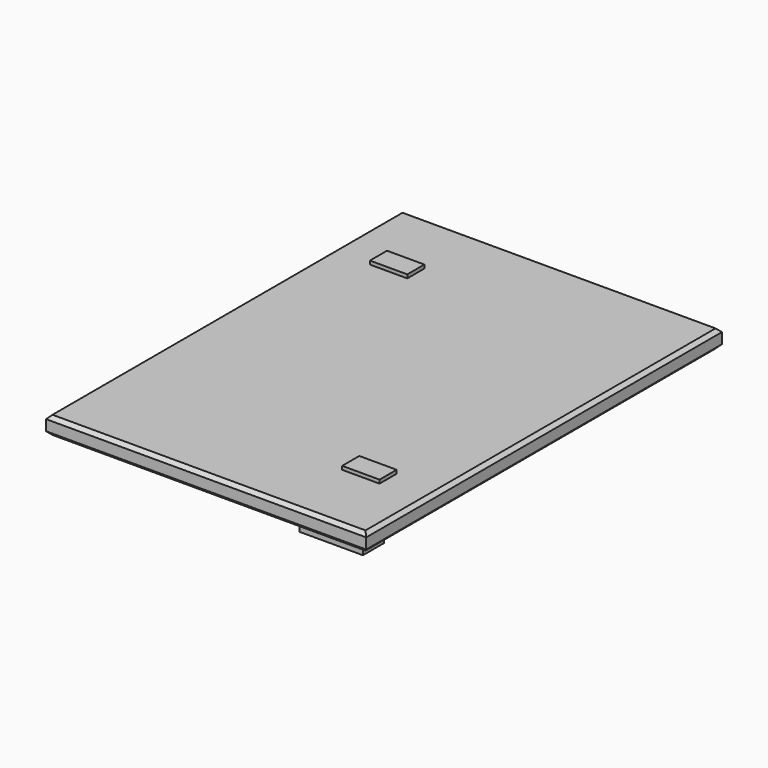
from build123d import *

# Parameters (mm, degrees)
F0_W      = 457.2
F0_H      = 635
F1_DEPTH  = 25.4
F2_SIZE   = 5.08
F3_W      = 90.6663909554
F3_H      = 37.3332202435
F4_DEPTH  = 25.4
F5_W      = 53.34
F5_H      = 30.48
F6_DEPTH  = 5.08
F12_DEPTH = 6.35


with BuildPart() as f1:
    # F0 (on Top) → F1 (new body)
    with BuildSketch(Plane.XY):
        Rectangle(F0_W, F0_H)
    extrude(amount=F1_DEPTH)

    # F2
    f2_edges = [f1.edges().sort_by_distance(p)[0] for p in [
        (0, -317.5, 25.4),
        (-228.6, 0, 25.4),
        (0, 317.5, 25.4),
        (228.6, 0, 25.4),
        (228.6, 0, 0),
        (0, -317.5, 0),
        (-228.6, 0, 0),
        (0, 317.5, 0),
    ]]
    chamfer(f2_edges, length=F2_SIZE)

    # F3 (on face) → F4 (join)
    with BuildSketch(Plane(origin=(0, 0, 0), x_dir=(1, 0, 0), z_dir=(0, 0, -1))):
        with Locations((152.5355242193, 266.2514895201)):
            Rectangle(F3_W, F3_H)
    extrude(amount=F4_DEPTH)


with BuildPart() as f6:
    # F5 (on Top) → F6 (new body)
    with BuildSketch(Plane.XY):
        with Locations((-725.0385009307, 129.6741962433)):
            Rectangle(F5_W, F5_H)
    extrude(amount=F6_DEPTH)


with BuildPart() as f7_1:
    # F7: copy of F6
    add(f6.part.moved(Location((0, 203.2, 0))))


with BuildPart() as f8_1:
    # F8: copy of F6
    add(f6.part.moved(Location((0, -203.2, 0))))


with BuildPart() as f8_1_1:
    # F9: moved
    add(f8_1.part.moved(Location((723.9, -129.54, 27.94))))


with BuildPart() as f7_1_1:
    # F9: moved
    add(f7_1.part.moved(Location((723.9, -129.54, 27.94))))


with BuildPart() as f6_1:
    # F9: moved
    add(f6.part.moved(Location((723.9, -129.54, 27.94))))

    # F12 (cut): a face of the model
    f12_faces = [f6_1.faces().sort_by_distance(p)[0] for p in [
        (-1.1385009307, 0.1341962433, 33.02),
    ]]
    extrude(f12_faces, amount=-F12_DEPTH, mode=Mode.SUBTRACT)


with BuildPart() as f7_1_2:
    # F10: moved
    add(f7_1_1.part.moved(Location((-142.748, 0, 0))))


with BuildPart() as f8_1_2:
    # F11: moved
    add(f8_1_1.part.moved(Location((142.748, 0, 0))))


solid = Compound([f1.part, f7_1_2.part, f8_1_2.part])
